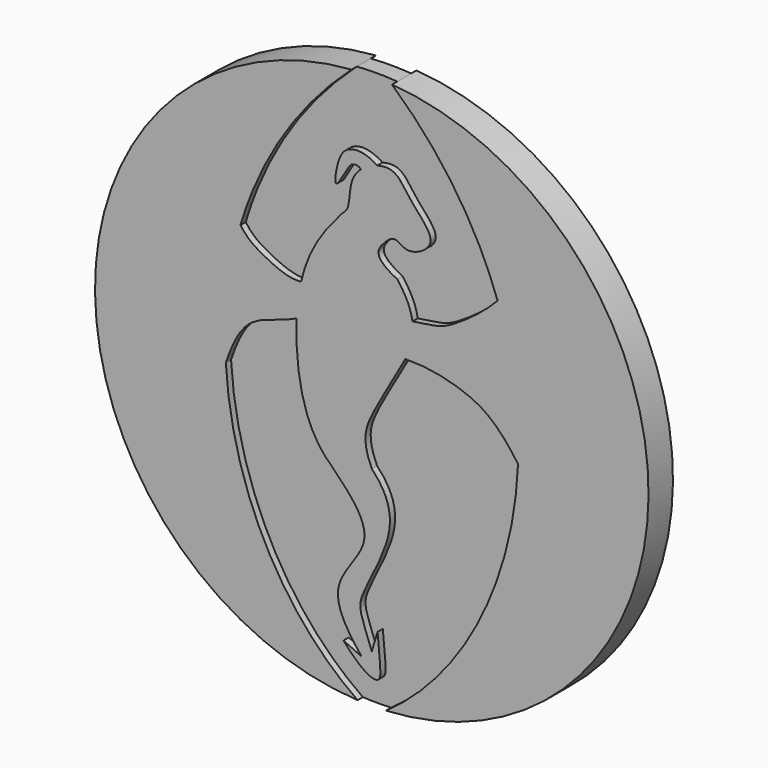
from build123d import *

# Parameters (mm, degrees)
F1_DEPTH = 2
F2_DEPTH = 3.5


with BuildPart() as f1:
    # F0 (on Front) → F1 (new body, symmetric)
    with BuildSketch(Plane.XZ):
        with BuildLine():
            ThreePointArc((4.6349213063, 63.3306205913), (0, 63.5), (-4.6349213063, 63.3306205913))
            add(Edge.make_bspline(
                [(-4.6349213063, 63.3306205913), (-17.6365514699, 51.6499952688), (-25.8565184609, 37.8912285967), (-30.0861167976, 23.6818638781)],
                knots=[0, 0, 0, 0, 37.5387287842, 37.5387287842, 37.5387287842, 37.5387287842], degree=3))
            add(Edge.make_bspline(
                [(-16.2039941748, 16.7492963783), (-19.2036718849, 16.466334612), (-25.2678593657, 19.4493199045), (-28.3465546585, 21.318155764), (-30.0861167976, 23.6818638781)],
                knots=[0, 0, 0, 0, 0.5349325674, 1, 1, 1, 1], degree=3))
            add(Edge.make_bspline(
                [(-7.8306320889, 32.305295639), (-12.4285498834, 27.3132700888), (-14.9506034376, 22.2294979601), (-16.2039941748, 16.7492963783)],
                knots=[0, 0, 0, 0, 0.3244654998, 0.3244654998, 0.3244654998, 0.3244654998], degree=3))
            add(Edge.make_bspline(
                [(-7.8306320889, 32.305295639), (-7.2081914781, 33.5948327012), (-4.532301789, 34.3242586774), (-5.5154397151, 40.5941941545), (-3.0472522842, 43.3975532895), (-2.47119519, 43.8959388292)],
                knots=[0, 0, 0, 0, 0.0856070967, 0.2113359614, 0.24307721, 0.24307721, 0.24307721, 0.24307721], degree=3))
            add(Edge.make_bspline(
                [(1.2497949066, 45.8840705773), (-1.211110426, 47.547771791), (-5.2436530088, 47.8285189153), (-7.8186252433, 44.7836247375), (-9.0559823816, 36.4341686046), (-5.4999164854, 43.266555359), (-4.6485154641, 44.3965365276), (-3.1304763598, 44.5635916974), (-2.47119519, 43.8959388292)],
                knots=[0, 0, 0, 0, 0.2172843642, 0.3895482907, 0.5807239861, 0.7649542616, 0.8787132466, 1, 1, 1, 1], degree=3))
            add(Edge.make_bspline(
                [(1.2497949066, 45.8840705773), (2.291906022, 46.1754139806), (5.9467401723, 46.4676202501), (8.4166908694, 41.0422940956), (16.2960449538, 34.335392784), (8.1323391451, 29.7900235171), (5.3657513431, 33.1986770004), (2.303510511, 30.4773900368), (0, 27.291272921), (5.8178770603, 24.4791831481)],
                knots=[0.3020828076, 0.3020828076, 0.3020828076, 0.3020828076, 0.3490998462, 0.4705147608, 0.6018088935, 0.7144594028, 0.798244378, 0.8788756896, 1, 1, 1, 1], degree=3))
            add(Edge.make_bspline(
                [(9.3342965484, 17.0704184069), (8.9996526944, 19.2854126734), (7.9554649186, 21.7225669221), (5.8178770603, 24.4791831481)],
                knots=[0.8651878767, 0.8651878767, 0.8651878767, 0.8651878767, 1, 1, 1, 1], degree=3))
            add(Edge.make_bspline(
                [(9.3342965484, 17.0704184069), (15.0002986336, 17.803500204), (17.6353799038, 18.5375787634), (25.6608752424, 24.1897459089), (28.8205347743, 27.5803561233)],
                knots=[0, 0, 0, 0, 0.4614979857, 1, 1, 1, 1], degree=3))
            add(Edge.make_bspline(
                [(4.6349213063, 63.3306205913), (16.4436515526, 52.7216929563), (24.3079017128, 40.3984690872), (28.8205347743, 27.5803561233)],
                knots=[0, 0, 0, 0, 34.0945494085, 34.0945494085, 34.0945494085, 34.0945494085], degree=3))
        make_face()
    extrude(amount=F1_DEPTH, both=True)


with BuildPart() as f1b:
    # F0 (on Front) → F1, piece 2 (new body, symmetric)
    with BuildSketch(Plane.XZ):
        with BuildLine():
            add(Edge.make_bspline(
                [(-33.441593972, -5.1806191586), (-32.0925820404, -29.1435974042), (-20.7266914828, -51.2318337464), (-3.2472518056, -63.4169169521)],
                knots=[62.8535068919, 62.8535068919, 62.8535068919, 62.8535068919, 126.7551336237, 126.7551336237, 126.7551336237, 126.7551336237], degree=3))
            ThreePointArc((-3.2472518056, -63.4169169521), (0, -63.5), (3.2472518056, -63.4169169521))
            add(Edge.make_bspline(
                [(33.5067553317, -3.8339935445), (32.5156497073, -28.3137943913), (21.0536511531, -51.0039070587), (3.2472518056, -63.4169169521)],
                knots=[61.6582022829, 61.6582022829, 61.6582022829, 61.6582022829, 126.7551336237, 126.7551336237, 126.7551336237, 126.7551336237], degree=3))
            add(Edge.make_bspline(
                [(7.6987204877, 8.9619522283), (12.845542857, 9.0500044602), (22.3315531069, 7.0212070245), (28.7111469995, 2.9653850034), (33.5067553317, -3.8339935445)],
                knots=[0, 0, 0, 0, 0.4799053646, 1, 1, 1, 1], degree=3))
            add(Edge.make_bspline(
                [(0, -15.6713102837), (-2.3296731605, -10.623685818), (-0.5633256739, -4.9976578589), (4.5322424744, 3.1711223138), (7.3059661343, 8.1720876415), (7.6987204877, 8.9619522283)],
                knots=[0, 0, 0, 0, 0.2949992505, 0.6208251158, 0.6803556387, 0.6803556387, 0.6803556387, 0.6803556387], degree=3))
            add(Edge.make_bspline(
                [(0, -15.6713102837), (3.1395845562, -18.9275045048), (6.500804944, -26.6612093957), (-3.9371441159, -43.3892565329), (-2.6198879255, -45.5958391855), (0, -52.5198263883)],
                knots=[0, 0, 0, 0, 0.320755032, 0.6919581876, 1, 1, 1, 1], degree=3))
            Line((0, -52.5198263883), (1.3271797216, -48.1446946204))
            add(Edge.make_bspline(
                [(1.3271797216, -48.1446946204), (1.8959720619, -54.9831725657), (2.9594382033, -59.6185324443), (-2.4647624232, -57.0687428117), (-6.4900877842, -52.4270193924)],
                knots=[0, 0, 0, 0, 0.5023632616, 1, 1, 1, 1], degree=3))
            Line((-6.4900877842, -52.4270193924), (-2.3278936177, -54.3189294645))
            add(Edge.make_bspline(
                [(-9.4798579812, -17.8221333772), (-5.3383628213, -22.0038007598), (2.6623917963, -30.2053916282), (-11.3320522598, -41.7235061037), (-5.5671419402, -50.284152895), (-2.3278936177, -54.3189294645)],
                knots=[0, 0, 0, 0, 0.3454021997, 0.6695384305, 1, 1, 1, 1], degree=3))
            add(Edge.make_bspline(
                [(-17.1986747112, 9.0875823158), (-17.2248173347, 8.5280385554), (-17.5344052547, -1.1823813864), (-15.6350281494, -12.3911011897), (-9.4798579812, -17.8221333772)],
                knots=[0.4703804861, 0.4703804861, 0.4703804861, 0.4703804861, 0.5011605951, 1, 1, 1, 1], degree=3))
            add(Edge.make_bspline(
                [(-17.1986747112, 9.0875823158), (-19.3477459301, 7.9317888367), (-26.2509058468, 6.3845808391), (-30.7342819611, 2.9746852349), (-33.441593972, -5.1806191586)],
                knots=[0, 0, 0, 0, 0.430015531, 1, 1, 1, 1], degree=3))
        make_face()
    extrude(amount=F1_DEPTH, both=True)


with BuildPart() as f2:
    # F0 (on Front) → F2 (new body, symmetric)
    with BuildSketch(Plane.XZ):
        with BuildLine():
            add(Edge.make_bspline(
                [(-4.6349213063, 63.3306205913), (-17.6365514699, 51.6499952688), (-25.8565184609, 37.8912285967), (-30.0861167976, 23.6818638781)],
                knots=[0, 0, 0, 0, 37.5387287842, 37.5387287842, 37.5387287842, 37.5387287842], degree=3))
            ThreePointArc((-4.6349213063, 63.3306205913), (-63.4102120185, -0.6942337418), (-3.2472518056, -63.4169169521))
            add(Edge.make_bspline(
                [(-33.441593972, -5.1806191586), (-32.0925820404, -29.1435974042), (-20.7266914828, -51.2318337464), (-3.2472518056, -63.4169169521)],
                knots=[62.8535068919, 62.8535068919, 62.8535068919, 62.8535068919, 126.7551336237, 126.7551336237, 126.7551336237, 126.7551336237], degree=3))
            add(Edge.make_bspline(
                [(-30.0861167976, 23.6818638781), (-32.9384068683, 14.0995757571), (-33.9760081874, 4.3123704274), (-33.441593972, -5.1806191586)],
                knots=[37.5387287842, 37.5387287842, 37.5387287842, 37.5387287842, 62.8535068919, 62.8535068919, 62.8535068919, 62.8535068919], degree=3))
        make_face()
        with BuildLine():
            ThreePointArc((3.2472518056, -63.4169169521), (63.4102120185, -0.6942337418), (4.6349213063, 63.3306205913))
            add(Edge.make_bspline(
                [(4.6349213063, 63.3306205913), (16.4436515526, 52.7216929563), (24.3079017128, 40.3984690872), (28.8205347743, 27.5803561233)],
                knots=[0, 0, 0, 0, 34.0945494085, 34.0945494085, 34.0945494085, 34.0945494085], degree=3))
            add(Edge.make_bspline(
                [(28.8205347743, 27.5803561233), (32.4687616438, 17.2175848778), (33.9264139981, 6.5313603835), (33.5067553317, -3.8339935445)],
                knots=[34.0945494085, 34.0945494085, 34.0945494085, 34.0945494085, 61.6582022829, 61.6582022829, 61.6582022829, 61.6582022829], degree=3))
            add(Edge.make_bspline(
                [(33.5067553317, -3.8339935445), (32.5156497073, -28.3137943913), (21.0536511531, -51.0039070587), (3.2472518056, -63.4169169521)],
                knots=[61.6582022829, 61.6582022829, 61.6582022829, 61.6582022829, 126.7551336237, 126.7551336237, 126.7551336237, 126.7551336237], degree=3))
        make_face()
        with BuildLine():
            add(Edge.make_bspline(
                [(28.8205347743, 27.5803561233), (32.4687616438, 17.2175848778), (33.9264139981, 6.5313603835), (33.5067553317, -3.8339935445)],
                knots=[34.0945494085, 34.0945494085, 34.0945494085, 34.0945494085, 61.6582022829, 61.6582022829, 61.6582022829, 61.6582022829], degree=3))
            add(Edge.make_bspline(
                [(9.3342965484, 17.0704184069), (15.0002986336, 17.803500204), (17.6353799038, 18.5375787634), (25.6608752424, 24.1897459089), (28.8205347743, 27.5803561233)],
                knots=[0, 0, 0, 0, 0.4614979857, 1, 1, 1, 1], degree=3))
            add(Edge.make_bspline(
                [(7.6987204877, 8.9619522283), (8.9181565458, 11.4143486177), (9.7931052293, 14.0335821237), (9.3342965484, 17.0704184069)],
                knots=[0.6803556387, 0.6803556387, 0.6803556387, 0.6803556387, 0.8651878767, 0.8651878767, 0.8651878767, 0.8651878767], degree=3))
            add(Edge.make_bspline(
                [(7.6987204877, 8.9619522283), (12.845542857, 9.0500044602), (22.3315531069, 7.0212070245), (28.7111469995, 2.9653850034), (33.5067553317, -3.8339935445)],
                knots=[0, 0, 0, 0, 0.4799053646, 1, 1, 1, 1], degree=3))
        make_face()
        with BuildLine():
            add(Edge.make_bspline(
                [(-16.2039941748, 16.7492963783), (-19.2036718849, 16.466334612), (-25.2678593657, 19.4493199045), (-28.3465546585, 21.318155764), (-30.0861167976, 23.6818638781)],
                knots=[0, 0, 0, 0, 0.5349325674, 1, 1, 1, 1], degree=3))
            add(Edge.make_bspline(
                [(-30.0861167976, 23.6818638781), (-32.9384068683, 14.0995757571), (-33.9760081874, 4.3123704274), (-33.441593972, -5.1806191586)],
                knots=[37.5387287842, 37.5387287842, 37.5387287842, 37.5387287842, 62.8535068919, 62.8535068919, 62.8535068919, 62.8535068919], degree=3))
            add(Edge.make_bspline(
                [(-17.1986747112, 9.0875823158), (-19.3477459301, 7.9317888367), (-26.2509058468, 6.3845808391), (-30.7342819611, 2.9746852349), (-33.441593972, -5.1806191586)],
                knots=[0, 0, 0, 0, 0.430015531, 1, 1, 1, 1], degree=3))
            add(Edge.make_bspline(
                [(-16.2039941748, 16.7492963783), (-16.7676550025, 14.2848015743), (-17.0747440085, 11.7401336734), (-17.1986747112, 9.0875823158)],
                knots=[0.3244654998, 0.3244654998, 0.3244654998, 0.3244654998, 0.4703804861, 0.4703804861, 0.4703804861, 0.4703804861], degree=3))
        make_face()
        with BuildLine():
            add(Edge.make_bspline(
                [(-7.8306320889, 32.305295639), (-12.4285498834, 27.3132700888), (-14.9506034376, 22.2294979601), (-16.2039941748, 16.7492963783)],
                knots=[0, 0, 0, 0, 0.3244654998, 0.3244654998, 0.3244654998, 0.3244654998], degree=3))
            add(Edge.make_bspline(
                [(-16.2039941748, 16.7492963783), (-16.7676550025, 14.2848015743), (-17.0747440085, 11.7401336734), (-17.1986747112, 9.0875823158)],
                knots=[0.3244654998, 0.3244654998, 0.3244654998, 0.3244654998, 0.4703804861, 0.4703804861, 0.4703804861, 0.4703804861], degree=3))
            add(Edge.make_bspline(
                [(-17.1986747112, 9.0875823158), (-17.2248173347, 8.5280385554), (-17.5344052547, -1.1823813864), (-15.6350281494, -12.3911011897), (-9.4798579812, -17.8221333772)],
                knots=[0.4703804861, 0.4703804861, 0.4703804861, 0.4703804861, 0.5011605951, 1, 1, 1, 1], degree=3))
            add(Edge.make_bspline(
                [(-9.4798579812, -17.8221333772), (-5.3383628213, -22.0038007598), (2.6623917963, -30.2053916282), (-11.3320522598, -41.7235061037), (-5.5671419402, -50.284152895), (-2.3278936177, -54.3189294645)],
                knots=[0, 0, 0, 0, 0.3454021997, 0.6695384305, 1, 1, 1, 1], degree=3))
            Line((-2.3278936177, -54.3189294645), (-6.4900877842, -52.4270193924))
            add(Edge.make_bspline(
                [(1.3271797216, -48.1446946204), (1.8959720619, -54.9831725657), (2.9594382033, -59.6185324443), (-2.4647624232, -57.0687428117), (-6.4900877842, -52.4270193924)],
                knots=[0, 0, 0, 0, 0.5023632616, 1, 1, 1, 1], degree=3))
            Line((1.3271797216, -48.1446946204), (0, -52.5198263883))
            add(Edge.make_bspline(
                [(0, -15.6713102837), (3.1395845562, -18.9275045048), (6.500804944, -26.6612093957), (-3.9371441159, -43.3892565329), (-2.6198879255, -45.5958391855), (0, -52.5198263883)],
                knots=[0, 0, 0, 0, 0.320755032, 0.6919581876, 1, 1, 1, 1], degree=3))
            add(Edge.make_bspline(
                [(0, -15.6713102837), (-2.3296731605, -10.623685818), (-0.5633256739, -4.9976578589), (4.5322424744, 3.1711223138), (7.3059661343, 8.1720876415), (7.6987204877, 8.9619522283)],
                knots=[0, 0, 0, 0, 0.2949992505, 0.6208251158, 0.6803556387, 0.6803556387, 0.6803556387, 0.6803556387], degree=3))
            add(Edge.make_bspline(
                [(7.6987204877, 8.9619522283), (8.9181565458, 11.4143486177), (9.7931052293, 14.0335821237), (9.3342965484, 17.0704184069)],
                knots=[0.6803556387, 0.6803556387, 0.6803556387, 0.6803556387, 0.8651878767, 0.8651878767, 0.8651878767, 0.8651878767], degree=3))
            add(Edge.make_bspline(
                [(9.3342965484, 17.0704184069), (8.9996526944, 19.2854126734), (7.9554649186, 21.7225669221), (5.8178770603, 24.4791831481)],
                knots=[0.8651878767, 0.8651878767, 0.8651878767, 0.8651878767, 1, 1, 1, 1], degree=3))
            add(Edge.make_bspline(
                [(1.2497949066, 45.8840705773), (2.291906022, 46.1754139806), (5.9467401723, 46.4676202501), (8.4166908694, 41.0422940956), (16.2960449538, 34.335392784), (8.1323391451, 29.7900235171), (5.3657513431, 33.1986770004), (2.303510511, 30.4773900368), (0, 27.291272921), (5.8178770603, 24.4791831481)],
                knots=[0.3020828076, 0.3020828076, 0.3020828076, 0.3020828076, 0.3490998462, 0.4705147608, 0.6018088935, 0.7144594028, 0.798244378, 0.8788756896, 1, 1, 1, 1], degree=3))
            add(Edge.make_bspline(
                [(-2.47119519, 43.8959388292), (-1.4003301636, 44.8224158218), (-0.0580371224, 45.5184394765), (1.2497949066, 45.8840705773)],
                knots=[0.24307721, 0.24307721, 0.24307721, 0.24307721, 0.3020828076, 0.3020828076, 0.3020828076, 0.3020828076], degree=3))
            add(Edge.make_bspline(
                [(-7.8306320889, 32.305295639), (-7.2081914781, 33.5948327012), (-4.532301789, 34.3242586774), (-5.5154397151, 40.5941941545), (-3.0472522842, 43.3975532895), (-2.47119519, 43.8959388292)],
                knots=[0, 0, 0, 0, 0.0856070967, 0.2113359614, 0.24307721, 0.24307721, 0.24307721, 0.24307721], degree=3))
        make_face()
        with BuildLine():
            add(Edge.make_bspline(
                [(1.2497949066, 45.8840705773), (-1.211110426, 47.547771791), (-5.2436530088, 47.8285189153), (-7.8186252433, 44.7836247375), (-9.0559823816, 36.4341686046), (-5.4999164854, 43.266555359), (-4.6485154641, 44.3965365276), (-3.1304763598, 44.5635916974), (-2.47119519, 43.8959388292)],
                knots=[0, 0, 0, 0, 0.2172843642, 0.3895482907, 0.5807239861, 0.7649542616, 0.8787132466, 1, 1, 1, 1], degree=3))
            add(Edge.make_bspline(
                [(-2.47119519, 43.8959388292), (-1.4003301636, 44.8224158218), (-0.0580371224, 45.5184394765), (1.2497949066, 45.8840705773)],
                knots=[0.24307721, 0.24307721, 0.24307721, 0.24307721, 0.3020828076, 0.3020828076, 0.3020828076, 0.3020828076], degree=3))
        make_face()
    extrude(amount=F2_DEPTH, both=True)


solid = Compound([f1.part, f1b.part, f2.part])
